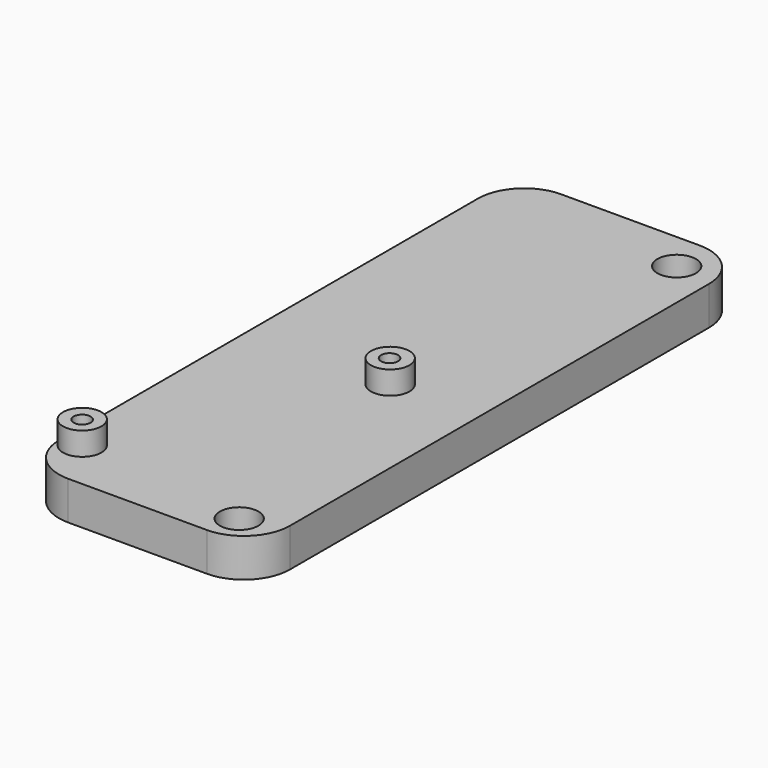
from build123d import *

# Parameters (mm, degrees)
SKETCH_W     = 30
SKETCH_H     = 80
SKETCH_R     = 2.5
PAD_DEPTH    = 5
SKETCH001_R  = 2.5
PAD001_DEPTH = 3
SKETCH002_R  = 1.1
POCKET_DEPTH = 5
FILLET_R     = 6


with BuildPart() as part:
    # Sketch → Pad (new body)
    with BuildSketch(Plane.XY):
        with Locations((15, 40)):
            Rectangle(SKETCH_W, SKETCH_H)
        with Locations((25, 4)):
            Circle(SKETCH_R, mode=Mode.SUBTRACT)
        with Locations((25, 75)):
            Circle(SKETCH_R, mode=Mode.SUBTRACT)
    extrude(amount=PAD_DEPTH)

    # Sketch001 (on Face8 of Pad) → Pad001 (join)
    with BuildSketch(Plane.XY.offset(5)):
        with Locations((2.54, 6.6)):
            Circle(SKETCH001_R)
        with Locations((18.542, 36.58)):
            Circle(SKETCH001_R)
    extrude(amount=PAD001_DEPTH)

    # Sketch002 (on DatumPlane) → Pocket (cut)
    with BuildSketch(Plane.XY.offset(8)):
        with Locations((2.583942, 6.530214)):
            Circle(SKETCH002_R)
        with Locations((18.499644, 36.530405)):
            Circle(SKETCH002_R)
    extrude(amount=-POCKET_DEPTH, mode=Mode.SUBTRACT)

    # Fillet
    fillet_edges = [part.edges().sort_by_distance(p)[0] for p in [
        (30, 0, 2.5),
        (0, 0, 2.5),
        (30, 80, 2.5),
        (0, 80, 2.5),
    ]]
    fillet(fillet_edges, radius=FILLET_R)


solid = part.part
